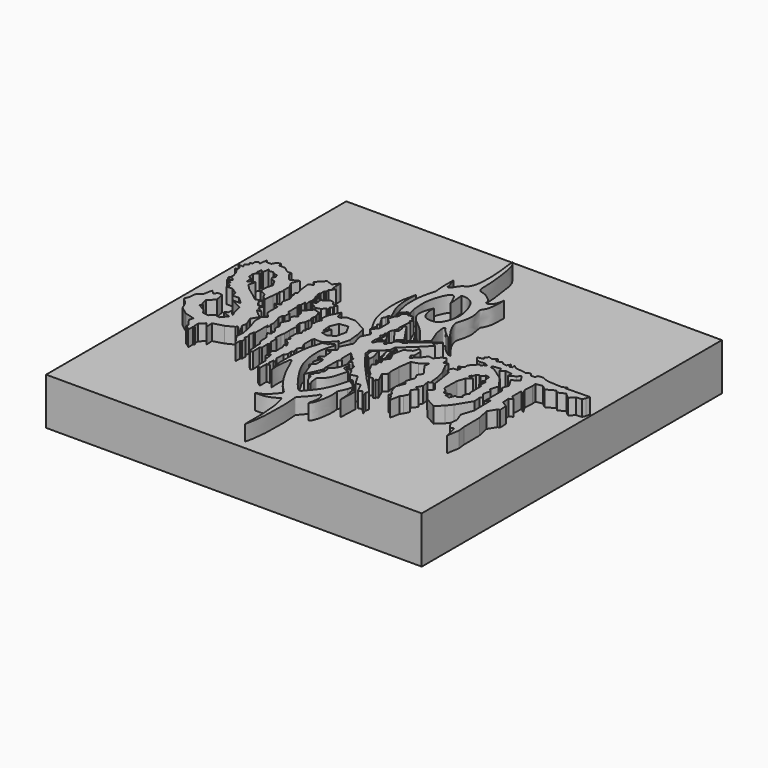
from build123d import *

# Parameters (mm, degrees)
F1_DEPTH = 25.4
F2_W     = 152.5938287377
F2_H     = 152.4340957403
F3_DEPTH = 19.05


with BuildPart() as f1:
    # F0 (on Top) → F1 (new body)
    with BuildSketch(Plane.XY):
        Polygon((-48.2117123902, -0.7492131554), (-46.7302165926, -2.2004691418), (-46.310249716, 1.7741884803), (-46.1366893617, 3.4168013238), (-45.5303192139, 4.0389937349), (-46.310249716, 4.7990907169), (-45.3353337944, 6.0038245283), (-45.9312607683, 6.4860710541), (-45.9312607683, 9.6485111862), (-47.2251698375, 11.973310262), (-45.9312607683, 14.8380640894), (-49.1000078619, 13.3381932974), (-51.3198189437, 15.9779656678), (-51.3198189437, 17.4178406596), (-52.8196878731, 17.1478651464), (-55.249478668, 18.9477112144), (-57.6042756438, 18.9477112144), (-58.0692365766, 20.5225758255), (-59.58410725, 19.5926558226), (-60.2890476584, 18.2877667248), (-62.4488592148, 18.2877667248), (-62.9451402718, 19.3362498111), (-63.2779146949, 16.1868004826), (-64.2187073827, 16.9678814709), (-65.1044097163, 15.9010749663), (-65.1044097163, 14.8380650207), (-66.1685392261, 14.4780967385), (-65.3736144304, 13.6831644922), (-66.7084977031, 12.5882588327), (-66.0779283343, 11.2560675098), (-68.0824094313, 11.4678632783), (-66.3335323334, 9.8284976557), (-66.4374698117, 8.8448108134), (-67.4324143801, 8.6657213842), (-66.0635530949, 7.878664881), (-65.1773959398, 6.3863522373), (-64.6824389696, 4.6465019695), (-64.6824389696, 3.4766027238), (-65.2323607141, 2.5201700118), (-63.8575106859, 3.0866363086), (-62.8225952387, 1.9167369464), (-64.7274330258, 1.2267963029), (-62.5226199627, 0.3868686326), (-63.086477365, -0.5938011989), (-61.2927265465, -1.3679801486), (-61.697691679, -2.6878665667), (-59.2379048467, -2.6878665667), (-56.7154362798, -4.3983748183), (-56.1983287334, -6.4415773377), (-53.7515282631, -6.2523917295), (-50.9389750659, -8.8757630438), (-54.2686358094, -8.8757630438), (-49.5390035212, -11.2468861043), (-48.6614964902, -14.8794101551), (-47.8168092668, -16.9486403465), (-50.0366203487, -14.7438310087), (-50.0966124237, -16.1387100816), (-51.3415075839, -16.9786382467), (-48.2067763805, -18.2535294443), (-50.2827093005, -20.6526070833), (-52.313297987, -20.1985631138), (-53.9024546742, -21.8003317714), (-56.1348423362, -21.5354729444), (-57.383466512, -19.7949670255), (-60.6313266276, -17.9275393664), (-59.6032440662, -17.2977205366), (-60.5491735041, -16.3770187646), (-60.9527677298, -14.1320191324), (-58.4834160956, -11.5950060905), (-59.2379048467, -7.9771876335), (-61.0788911581, -7.8762881458), (-61.8546920763, -9.2255735371), (-63.4619503333, -7.6611803952), (-64.2067566514, -11.5338731557), (-66.0635530949, -12.865923167), (-66.3808137178, -15.8120375127), (-67.0859026916, -17.5457261689), (-64.7750315671, -19.7949670255), (-63.411064446, -22.8314325213), (-60.2313391864, -25.2012293786), (-56.2416836619, -26.2811351568), (-56.7159094253, -28.0331374842), (-55.4816638318, -29.7536005367), (-54.5732877109, -31.0198214264), (-54.831802845, -31.950648874), (-54.0038183696, -32.1747647692), (-52.7122480043, -33.4318893246), (-52.7122480043, -31.0207288712), (-52.1957127203, -30.650170842), (-52.7619794011, -30.3907822818), (-52.7619794011, -28.2909628004), (-50.8376513703, -26.3139072674), (-49.2933823768, -28.466524024), (-49.5390035212, -25.3512170166), (-45.3226193786, -24.1513196379), (-42.1128943563, -22.5614570081), (-41.7194927155, -21.8772465691), (-38.7139684305, -24.8026143862), (-41.0029925406, -20.6416230649), (-40.7132431865, -18.7061093748), (-42.0181304216, -15.3314005584), (-40.3370895542, -12.4077073382), (-42.0781262219, -11.2468861043), (-44.0127999835, -9.3638095352), (-42.3181019723, -9.2119276524), (-44.5953432854, -7.9025783383), (-43.8555355757, -6.0835224719), (-45.7828044891, -6.6021527164), (-47.2715298175, -4.52696044), (-46.7178053498, -3.165450242), (-49.1376928985, -3.9228773676), (-51.420532167, -2.1445346065), (-55.2546903491, 0.6301843096), (-57.0621117949, 2.7307490818), (-56.342183553, 5.3904863903), (-58.7802305818, 4.1094888002), (-59.2379048467, 6.5700081177), (-60.3019009653, 6.8580068057), (-60.5491735041, 9.2426417395), (-59.2379048467, 10.9259030591), (-60.3498741984, 10.9259030591), (-60.038395666, 13.0065667605), (-58.9035708467, 12.2499320662), (-58.5211224004, 14.8046718549), (-57.9528489763, 14.0125333738), (-56.1712309718, 14.2697375268), (-55.4816638318, 13.5985609439), (-54.047193555, 13.3838185537), (-53.5198114812, 12.0001202449), (-54.2615120357, 11.238096743), (-53.5622350872, 9.963828139), (-52.2220388278, 9.7631987131), (-50.6909973919, 7.0988778025), (-51.3302044441, 4.7373607159), (-51.4758042991, 1.7479066737), (-48.9261557758, 0.7109678586), align=None)
    extrude(amount=F1_DEPTH)


with BuildPart() as f1b:
    # F0 (on Top) → F1, piece 2 (new body)
    with BuildSketch(Plane.XY):
        Polygon((-34.7670838237, 19.4117538631), (-34.7170606256, 21.5284470469), (-36.4869087934, 19.24864389), (-39.0666872263, 20.1185680926), (-42.0964248478, 16.938842833), (-40.6548150206, 15.5652337402), (-42.3664003611, 14.389061369), (-41.9261753559, 10.7197277248), (-41.301894933, 7.9193860292), (-42.0331954956, 6.9740479812), (-41.3197316229, 6.1178924516), (-41.8250031982, 5.6968322559), (-41.1890265175, 4.9336612353), (-40.7132841647, 3.1213480979), (-41.4089113474, 0.321006577), (-40.3208807111, -1.6766893677), (-42.4434319139, -2.3366427049), (-40.3208807111, -3.4425100312), (-40.3208807111, -8.640203625), (-38.2899791002, -10.890009813), (-39.9237276165, -12.364795735), (-39.9237276165, -15.5187621713), (-38.3320339024, -20.3973781317), (-37.6108475029, -24.5972312987), (-37.8865972161, -27.375921607), (-35.001847893, -31.5757729113), (-35.001847893, -29.1576758027), (-34.4592339238, -28.862145032), (-34.4592339238, -27.0365383476), (-35.2139621973, -26.8456358463), (-34.9890663749, -24.579392901), (-35.4897081852, -24.1093691438), (-35.2900323591, -22.0972644839), (-34.7589233199, -21.80799979), (-34.7589233199, -15.7308746129), (-34.6624627709, -15.306647867), (-34.2594459653, -16.6641753167), (-33.7927974761, -14.861209318), (-34.3230813742, -14.4581925124), (-34.3230813742, -12.8461280838), (-35.0442714989, -10.0250169635), (-35.3836528957, -9.1765616089), (-35.2004455921, -7.3304078881), (-34.5776192844, -7.0342123508), (-34.5776192844, -4.6797501855), (-35.4472883046, -4.1070426814), (-35.4472883046, 0.623094209), (-35.8194448054, 0.8795556496), (-35.7659347355, 1.8248939887), (-35.3378579021, 2.1459520794), (-35.3378579021, 4.2685042135), (-34.2855006456, 3.7155703176), (-34.5776192844, 4.9336612353), (-34.5776192844, 6.1413440853), (-34.1784805059, 6.5337484702), (-34.0357869864, 6.997499615), (-34.5776192844, 7.0512695872), (-34.5776192844, 8.0498578027), (-33.9644402266, 8.3174062893), (-33.9644402266, 9.8335146904), (-35.1059809327, 8.6563006043), (-35.3200174868, 10.6718335301), (-35.7124246657, 10.9393820167), (-35.7124246657, 11.8847200647), (-35.3913642466, 12.1522685513), (-35.3913642466, 13.9715997502), (-34.820120455, 14.2827235465), (-34.8919406533, 15.5947273597), (-33.2331359386, 17.4140576273), (-34.5776192844, 17.0751623809), align=None)
    extrude(amount=F1_DEPTH)


with BuildPart() as f1c:
    # F0 (on Top) → F1, piece 3 (new body)
    with BuildSketch(Plane.XY):
        Polygon((-28.4100533473, 10.1006627339), (-29.9677979201, 10.4446299374), (-31.8980328739, 8.5780285299), (-32.5221356426, 9.2234073312), (-32.5221356426, 7.899264805), (-32.2374142706, 6.3720452599), (-33.5084343267, 5.6797933865), (-32.7040664852, 4.8024035059), (-30.4768718779, 3.4448753577), (-28.6102704704, 3.9751599543), (-27.5116578109, 5.3854370813), (-26.7224572599, 5.0781513564), (-27.0618405193, 6.4993137494), (-26.3194423169, 7.1568666026), (-26.5103448182, 7.7932076529), (-26.0012708604, 9.0871015564), (-27.7193933725, 8.8325655088), align=None)
    extrude(amount=F1_DEPTH)


with BuildPart() as f1d:
    # F0 (on Top) → F1, piece 4 (new body)
    with BuildSketch(Plane.XY):
        Polygon((-28.853174299, 1.9623525441), (-29.9677979201, 2.2994615138), (-32.8525453806, -1.1155701941), (-31.601075083, -2.4730984587), (-31.8344011903, -3.3003422432), (-30.9223104268, -4.7427159734), (-32.1737825871, -5.2305776626), (-32.5555875897, -6.7153740674), (-31.3677489758, -8.3910729736), (-32.8525453806, -11.3818766549), (-31.4101725817, -13.6302830651), (-31.8131893873, -15.2635592967), (-30.8162532747, -16.7483557016), (-30.2859693766, -17.5755992532), (-31.007155776, -17.8513471037), (-30.2435457706, -18.9543385059), (-31.601075083, -19.6967367083), (-29.9142878503, -22.2531761974), (-29.8607796431, -25.2318829298), (-28.8562551141, -26.7670378089), (-28.9462469518, -28.3868983388), (-28.6312736571, -29.0168430656), (-28.6118183285, -32.2687663138), (-27.8626829386, -32.9822301865), (-27.2384025156, -32.3044396937), (-27.3454226553, -28.8976542652), (-26.6966774219, -28.5443198696), (-26.8358662724, -25.4803672433), (-26.4458991587, -25.1353960484), (-26.4908950776, -23.99549447), (-26.9408561289, -23.5005374998), (-26.8808621913, -20.8307672292), (-27.5858007371, -20.4258020967), (-27.4808108807, -17.9060194641), (-27.1508395672, -16.3311567158), (-27.2108353674, -13.781376183), (-27.2108353674, -11.4715751261), (-26.7908703536, -10.5416551232), (-26.8208682537, -9.5817381516), (-27.5558046997, -10.0017022341), (-27.8107821941, -7.9618776217), (-26.8730316311, -6.2104566023), (-26.8225837499, -4.7095855698), (-26.0153915733, -4.0159057826), (-26.9487071782, -3.3600633033), (-26.9487071782, -1.8339678645), (-26.4189876616, -1.4555971138), (-26.5198871493, -0.9132656269), (-26.9613191485, -0.7619172684), (-27.1126683801, 0.7011164562), (-27.5471889229, 1.0396100473), (-27.3523032665, 1.6344310716), align=None)
    extrude(amount=F1_DEPTH)


with BuildPart() as f1e:
    # F0 (on Top) → F1, piece 5 (new body)
    with BuildSketch(Plane.XY):
        Polygon((-21.2051046628, 3.1816350311), (-22.0202431083, 6.0638077557), (-24.1201687604, 1.9167369464), (-24.4264863868, -1.1699818386), (-23.4838407487, -1.8759611994), (-24.3221595883, -3.6596183199), (-24.1824669263, -5.0099725532), (-24.8572565615, -5.6038047187), (-24.090282619, -6.4064501785), (-23.0389569564, -8.3367533728), (-23.0675321072, -9.3818698078), (-23.9074602723, -9.5318574458), (-23.1875199825, -10.5667682365), (-23.8174665719, -11.3017046824), (-23.1275260448, -12.5915938988), (-24.2224317044, -14.2114544287), (-24.2224317044, -17.6911540329), (-23.2925117016, -17.7811477333), (-24.2356918752, -19.5577666163), (-22.4423501641, -20.6059981138), (-21.408136934, -22.3212782294), (-22.4675741047, -22.8762235492), (-21.7865072191, -23.8347612321), (-21.7865072191, -27.375921607), (-22.6315525642, -28.4606971293), (-22.4171262234, -31.9066718221), (-21.4838106185, -30.3175151348), (-21.1054403335, -31.7048765719), (-20.8647061268, -34.0319598302), (-20.1468989253, -34.7570665181), (-20.1468989253, -37.3552106321), (-20.0048975612, -38.727882184), (-18.4962900612, -39.9030946767), (-18.4962900612, -36.3209992647), (-17.0334414873, -36.4661684019), (-18.5072943568, -35.1354368031), (-18.2550475001, -33.0670066178), (-16.9685874134, -33.5967279971), (-18.5072943568, -31.2856882811), (-18.3591879904, -27.9324129224), (-17.5055500782, -26.8366072151), (-17.7349075675, -24.9715428799), (-17.1819739044, -24.1867341101), (-17.6813974977, -22.1176911145), (-16.6468750685, -20.3973781317), (-17.7757611078, -18.3246689751), (-17.7757611078, -14.1318235546), (-17.2517765924, -13.459190329), (-14.714770534, -13.7109559507), (-12.6874689013, -12.3451668769), (-10.404387489, -9.7767002881), (-9.2628467828, -11.3819921389), (-8.137542772, -7.0342123508), (-8.5493829101, -2.8204389382), (-9.5839053392, 1.5673574526), (-15.0062227622, 4.4925548136), (-18.5072943568, 4.4925548136), (-20.0361348689, 3.0656296294), align=None)
        Polygon((-13.1524928152, -7.3298919234), (-15.6688485295, -9.1193001717), (-18.1790521062, -8.5958714165), (-17.2384902835, -4.9618706107), (-18.8482865295, -7.0342123508), (-19.1899370402, -3.7316107191), (-17.7475623786, -0.4650589544), (-14.2998472218, 0), (-12.3598733917, -3.5619197879), align=None, mode=Mode.SUBTRACT)
    extrude(amount=F1_DEPTH)


with BuildPart() as f1f:
    # F0 (on Top) → F1, piece 6 (new body)
    with BuildSketch(Plane.XY):
        Polygon((-4.5212227851, 17.7852232009), (-5.2940296009, 18.2834398001), (-6.4394441433, 17.350140959), (-6.2478772583, 15.4983389357), (-7.1830879897, 14.5047735423), (-7.8428809639, 11.955565035), (-5.8108912781, 10.0375460461), (-5.8108912781, 4.9336612353), (-7.8799333423, 3.0099377036), (-5.4375535064, 0.3830599147), (-7.1307974868, -3.1971889548), (-5.6681991555, -8.1200823188), (-7.9869525507, -12.7932634205), (-6.9983928599, -14.6083241546), (-9.6279177815, -17.1453878284), (-7.759694102, -16.952122141), (-7.3353908979, -21.0536949768), (-8.6647430435, -21.7472240329), (-8.6647430435, -22.56770432), (-7.3448373005, -22.5320309401), (-7.986953482, -25.8139595389), (-6.9524324499, -22.6747244596), (-6.2032965943, -22.9244362563), (-6.2032965943, -26.4560766518), (-7.8085879795, -28.0970409513), (-6.91675907, -28.6321379244), (-4.8477165401, -34.3041680753), (-1.9938659389, -27.704635635), (-2.4219437037, -26.7771352082), (-2.3149242625, -20.5700080842), (-1.3517489424, -19.5711608976), (-2.2792511154, -18.5723118484), (-2.2792511154, -13.7921115384), (0, -15.9681718796), (0.8243122138, -16.2892304361), (0.9313315968, -19.0717354417), (1.9301793072, -18.3582734317), (3.678162815, -20.2132761478), (4.3559540063, -20.2489495277), (4.7483583912, -22.2823191434), (3.1787389889, -22.4606841803), (5.4618208669, -23.2098214328), (6.6722050444, -25.5298782338), (9.3145202845, -24.8151104897), (11.8473134935, -29.1315615177), (13.7023162097, -28.7748295814), (15.6286656857, -32.5918570161), (16.9128999114, -31.9497399032), (19.1246345639, -34.4111844897), (18.4111706913, -32.2351232171), (18.8035760075, -31.0222376138), (16.8772265315, -28.7034828216), (13.0245266482, -24.8864572495), (7.3881698772, -18.6079833657), (3.1844549812, -13.3794993162), (1.47460273, -11.0397003591), (1.0546382982, -8.9998757467), (6.12962991, -4.4484529644), (6.1896247789, -2.2286444437), (11.7091489956, 2.9309112579), (15.4888229445, 6.7705805413), (13.9889521524, 7.430523634), (16.0887707025, 10.0702969357), (7.9951444641, 3.5665326286), (6.7952484824, 3.5065377597), (7.6351757161, 2.9665841721), (5.9553203173, 1.8866772298), (5.5953515694, 2.336638514), (3.7055143621, 1.2867287733), (3.315547714, -0.5731110577), (2.385627944, -1.1430616723), (2.7455969248, -1.7130128108), (1.9656640943, -2.4029533379), (1.1557337129, -0.9030826041), (-0.8240957395, -2.5829377118), (-1.1909281932, -3.7009017756), (-1.9339999417, -3.842829261), (-2.0539895631, -2.2229687311), (-1.7240181332, 0.5967884208), (-2.5639457162, 1.2267340207), (-2.0239921287, 2.276643645), (-2.3239664733, 3.3565508202), (-1.4840388903, 3.8665069733), (-1.5740310773, 4.6164421365), (-2.1139844321, 4.7064344399), (-1.7840127693, 6.4762816764), (-1.2140619801, 7.3762042448), (-0.8540928247, 8.3361221477), (-1.2740568491, 9.0260626748), (-1.1240697931, 11.4858504385), (-0.7879640325, 14.6069088951), (-1.569930464, 15.010504052), (-0.6618404877, 15.8681441098), (-1.7717281589, 16.473537311), (-2.6532367547, 18.1632074593), align=None)
    extrude(amount=F1_DEPTH)


with BuildPart() as f1g:
    # F0 (on Top) → F1, piece 7 (new body)
    with BuildSketch(Plane.XY):
        Polygon((14.9972308427, -22.9948610067), (16.257122159, -22.9948610067), (14.3430428579, -18.874777481), (15.9126613289, -17.3408314586), (15.4845854267, -16.0209275782), (15.627278015, -11.7044774815), (16.3050685078, -6.7102378234), (18.9092066139, -5.8897556737), (21.6203648597, -4.0347520262), (21.406326443, -5.9967748821), (24.6525816619, -10.5272633955), (23.4040226787, -12.4892871827), (24.4385451078, -14.4513091072), (23.2256576419, -17.9116036743), (24.367198348, -19.4812230766), (23.0829641223, -22.6561315358), (24.1174865514, -26.2591186911), (25.4017189145, -27.5076795369), (24.9022953212, -28.6492202431), (25.9724892676, -28.684893623), (27.50643529, -31.2176849693), (28.2555706799, -27.2936411202), (29.0403794497, -26.2591186911), (29.9678817391, -24.2257509381), (28.3269155771, -21.7999778688), (29.9873569296, -19.7769016834), (28.4339357167, -19.2671846598), (29.6824947, -17.0554500073), (29.1830711067, -14.1302514821), (30.8953821659, -13.4167894721), (29.8608597368, -13.0957309157), (29.5754745603, -9.5284171402), (28.635031601, -5.9663060626), (26.4362376183, -1.7516715452), (26.3292174786, -0.1107071148), (24.6882550418, -0.6458041607), (24.6525816619, 1.1735260487), (23.3683474362, 2.5647785515), (21.8700766563, 1.4945843723), (20.2647857368, -0.3960922477), (18.3027628809, -0.1107071148), (17.5892990083, -1.4662864851), (14.2716970295, -4.8195617273), (13.6295799166, -3.2856166363), (14.4143896177, -2.5008076336), (14.4143896177, 0.7811214891), (12.9161179066, 1.9940081984), (12.223567548, -0.2132351849), (9.3488031998, -1.7130128108), (8.4926486015, -5.9611033648), (9.9909203127, -9.028993547), (8.3883022896, -10.9725590393), (9.4177117571, -12.9457246512), (7.0179183967, -12.5557575375), (8.7577681988, -13.575669378), (8.787766099, -15.1655329391), (7.7095535143, -15.7085084594), (9.5077035949, -19.1551912576), (11.4575354382, -21.0450273007), (12.6086075513, -23.3437461324), (13.7373395264, -22.754881531), (14.757251367, -23.8947831094), (15.6571734697, -23.6848015338), align=None)
    extrude(amount=F1_DEPTH)


with BuildPart() as f1h:
    # F0 (on Top) → F1, piece 8 (new body)
    with BuildSketch(Plane.XY):
        Polygon((31.6499508917, -0.2989926143), (31.3319303095, -1.7130128108), (29.7198630869, -1.7130128108), (28.8289859891, -3.6952225491), (30.3137823939, -4.7557912767), (31.1622377485, -10.0162131712), (31.5683856606, -13.2805956528), (34.2081561685, -16.760295257), (32.5282998383, -18.6201352626), (36.6679430008, -23.479718715), (40.8675819635, -25.8195158094), (43.5673519969, -23.2997331768), (45.3671962023, -20.9599342197), (48.966884613, -15.0804407895), (48.6764572561, -12.0943784714), (49.4836457074, -11.4385355264), (47.9701645672, -9.5719061792), (48.5920831561, -6.5203574486), (47.6321652532, -5.5604400113), (48.6520789564, -2.4407086894), (45.4123541713, 2.1788934246), (39.9528257549, 6.0185631737), (38.4645685554, 6.2708100304), (38.3636690676, 7.2041251697), (41.6016304182, 7.5541769666), (42.1978272498, 6.1194617301), (43.6608605087, 7.330248598), (46.3346801698, 6.9518778473), (46.3346801698, 5.1356977783), (48.6805774271, 6.4978329465), (49.8409159482, 7.7590686269), (51.5814200044, 5.1861470565), (48.8878687801, 3.3640406676), (50.8751273155, 0.0403044323), (50.0352010131, -2.5994686875), (51.355086267, -4.1593345813), (51.355086267, -13.318839483), (52.7047216892, -11.282547377), (52.9168359935, -20.0640577823), (51.3240695, -25.00044927), (52.6796467602, -28.710456565), (52.3229166865, -31.4216166735), (54.3206110597, -34.3468114734), (55.6048452854, -33.633351326), (56.8890757859, -38.9843210578), (57.7452294528, -33.8473916054), (57.3884993792, -30.8508463204), (57.3171526194, -23.0741016567), (56.246958673, -18.0798601359), (58.1733100116, -14.9406250566), (59.0294636786, -14.6552389488), (58.8867738843, -11.5160029382), (56.5323457122, -10.017731227), (56.3183054328, -7.0211882703), (57.8165762126, -6.2363790348), (56.246958673, -5.0948387943), (56.3183054328, -0.4573299957), (58.1019632518, -1.8129097298), (56.5323457122, 0.8982497966), (56.8177290261, 4.5369095169), (56.6393621266, 6.1811120249), (59.2791736126, 6.7162089981), (61.3125450909, 5.1109176129), (64.6943375468, 6.9152773358), (65.6528770924, 5.9062889777), (68.4275925159, 7.1675246581), (70.6978142262, 5.1999967545), (72.3626464605, 7.0666256361), (74.7337713838, 7.2684236802), (75.2887204289, 8.5801091045), (75.7427588105, 10.0431423634), (65.9555718303, 9.8413452506), (66.1069154739, 10.7998847961), (64.6943375468, 9.7908955067), (58.6908496916, 10.0935921073), (56.8746700883, 10.6485364959), (55.8656826615, 11.2034799531), (53.8981556892, 10.9512330964), (53.6963567138, 9.8917940632), (52.0819760859, 9.7404457629), (51.0729849339, 11.0521316528), (49.4081526995, 10.1440418512), (47.9451194406, 10.5476370081), (45.2208518982, 10.6989853084), (43.606467545, 11.9602214545), (43.8587144017, 10.5476370081), (42.7992790937, 10.2953901514), (42.2947816551, 11.7584234104), (41.4875932038, 10.3962887079), (39.8227609694, 10.6485364959), (39.318267256, 11.4052779973), (38.309276104, 10.9512330964), (36.9471423328, 10.6485364959), (36.5939959884, 12.2124692425), (35.2823100984, 10.9512330964), (33.7183773518, 11.4557277411), (32.6084904373, 10.1440418512), (33.2643315196, 9.4881989062), (31.3472561538, 9.0846037492), (30.7923108339, 8.8323559612), (31.9021977484, 7.4197719805), (33.3652310073, 7.0666256361), (35.3327617049, 7.2684236802), (36.7453433573, 6.6125807352), (35.6354564428, 5.9062889777), (35.1814106107, 5.0990977325), (34.5255695283, 5.6035919115), (31.9021977484, 2.7784234844), (31.9021977484, 1.264940016), (29.98512052, 0.2055019722), align=None)
        Polygon((35.8310267329, -14.0219926834), (35.9716750681, -7.6932064258), (36.9898192585, -4.7557912767), (38.9412678778, -3.3660857007), (36.6928614676, -2.7721670922), (37.3716242611, -1.9237120869), (37.7110056579, -2.4752079044), (38.0079671741, -0.6086067297), (39.0685349703, -0.1419562032), (39.7472977638, -0.5237610894), (40.850289166, 0.9186127572), (42.2502420843, 0.7064985693), (42.6744669676, -2.1358258091), (42.2926656902, -2.8570126742), (43.5653477907, -2.3903623223), (43.4805005789, -4.8508821055), (42.8441613913, -5.0629959442), (44.1592670977, -5.8266054839), (44.2441105843, -11.6809457541), (44.7531826794, -12.0627498254), (44.0744198859, -12.5718228519), (43.6077713966, -14.480846934), (44.1785417497, -15.0565132499), (42.8229607642, -16.5547858924), (42.038153857, -15.8769953996), (41.074976325, -18.1600768119), (39.2199754715, -17.5893064588), (40.3258427978, -16.0196889192), (37.7573743463, -16.7331509292), (37.0082370937, -14.9494940415), align=None, mode=Mode.SUBTRACT)
    extrude(amount=F1_DEPTH)


with BuildPart() as f1i:
    # F0 (on Top) → F1, piece 9 (new body)
    with BuildSketch(Plane.XY):
        with BuildLine():
            add(Edge.make_bspline(
                [(13.109642081, 44.7500385344), (13.0041518924, 43.7914933624), (12.8068516749, 41.9987088993), (11.4331204269, 40.1611450951), (10.6534175101, 39.7081258878), (9.4144625868, 39.6941646208), (9.8188253256, 41.1278984747), (7.8949126406, 42.845109264), (5.5110187564, 44.6205571878), (3.1923847958, 44.8411094872), (2.34458882, 46.1903273817), (2.3279508422, 48.487157841), (2.163013139, 53.3533734673), (1.3313994932, 59.8327643514), (0.3405325163, 65.1745187983), (-0.8730222746, 66.5522348989), (-1.3598267687, 67.1048909426)],
                knots=[0, 0, 0, 0, 0.0759166757, 0.1419883388, 0.185211357, 0.2273364077, 0.2732965828, 0.343825801, 0.4234054464, 0.4896555297, 0.5416245278, 0.6080957484, 0.7076848139, 0.8264005523, 0.9303624427, 1, 1, 1, 1], degree=3))
            add(Edge.make_bspline(
                [(-1.3598267687, 67.1048909426), (-0.7553736425, 62.3385672507), (0.3002658799, 54.0144814837), (-0.7919286027, 45.1388921384), (-3.978759385, 44.3206319653), (-5.3304945112, 41.2427045211), (-6.0421805285, 40.8280777232), (-6.9456417129, 40.733826727), (-6.8497514862, 41.2580711186), (-6.8018063903, 41.5201932192)],
                knots=[0, 0, 0, 0, 0.3002596886, 0.5243847381, 0.6582121613, 0.7987334608, 0.8712489105, 0.9356244786, 1, 1, 1, 1], degree=3))
            Line((-6.8018063903, 41.5201932192), (-6.7771822214, 41.5201932192))
            Line((-6.7771822214, 41.5201932192), (-8.1315208226, 45.6570833921))
            Line((-8.1315208226, 45.6570833921), (-8.1561449915, 40.2643531561))
            Line((-8.1561449915, 40.2643531561), (-7.7811530791, 36.2295433879))
            add(Edge.make_bspline(
                [(-7.7811530791, 36.2295433879), (-8.3402063929, 34.2966818848), (-9.4789531848, 30.3595979221), (-9.5450488039, 23.4912473894), (-8.8108889304, 20.0498447269), (-7.9669304657, 17.3016511853), (-7.523923181, 15.8590804785)],
                knots=[0, 0, 0, 0, 0.2759065464, 0.561999521, 0.7700865493, 1, 1, 1, 1], degree=3))
            Line((-7.523923181, 15.8590804785), (-7.275513839, 16.0130336881))
            Line((-7.275513839, 16.0130336881), (-7.336455863, 17.8151801229))
            Line((-7.336455863, 17.8151801229), (-5.8999625035, 19.312614575))
            Line((-5.8999625035, 19.312614575), (-5.1773632877, 19.373556599))
            Line((-5.1773632877, 19.373556599), (-4.3241730891, 18.7118984759))
            Line((-4.3241730891, 18.7118984759), (-4.8900642432, 19.7827387601))
            Line((-4.8900642432, 19.7827387601), (-5.5256034248, 22.246543318))
            add(Edge.make_bspline(
                [(-5.5256034248, 22.246543318), (-5.678365751, 23.8366908811), (-6.0042915554, 27.2293475428), (-5.1675432202, 32.8159304985), (-1.8078177562, 39.7962833884), (0.0851211358, 35.0207391401), (1.0645600269, 32.549791038)],
                knots=[0, 0, 0, 0, 0.2359191399, 0.5033448846, 0.7430221665, 1, 1, 1, 1], degree=3))
            Line((1.0645600269, 32.549791038), (0.4788909864, 38.9042980969))
            add(Edge.make_bspline(
                [(0.4788909864, 38.9042980969), (0.9935335346, 38.9551707285), (2.2059567067, 39.0750192672), (5.3686948813, 37.8692678848), (7.4416489952, 34.283133395), (9.6334826533, 27.0762754477), (6.9390188264, 20.1531274757), (4.1881009674, 19.3766802493), (0.841446668, 19.5408343783), (-1.0182644024, 22.910019015), (-0.9578714463, 25.4442647685), (-0.9267150308, 26.7516691238)],
                knots=[0, 0, 0, 0, 0.0736988715, 0.173623848, 0.2878856285, 0.4450659274, 0.5932993783, 0.6840386823, 0.7823529946, 0.8877170289, 1, 1, 1, 1], degree=3))
            add(Edge.make_bspline(
                [(-0.9267150308, 26.7516691238), (-1.4646107764, 25.4307599498), (-2.4844088979, 22.9264443736), (-2.485208811, 19.3157391681), (-0.038346326, 16.2076283611), (4.9788191486, 12.7628382078), (8.0567049079, 8.4305420728), (9.720637463, 6.0884640552)],
                knots=[0, 0, 0, 0, 0.1834839622, 0.3478677821, 0.5201861387, 0.7406083374, 1, 1, 1, 1], degree=3))
            Line((9.720637463, 6.0884640552), (12.4343121424, 8.6989672855))
            add(Edge.make_bspline(
                [(12.4343121424, 8.6989672855), (12.1533434043, 9.5181735629), (11.5763922756, 11.2003606618), (10.2375684104, 13.7392399597), (9.9668545831, 16.449230252), (9.7725720844, 17.6508145199), (9.9281557142, 18.0864030858), (10.1374029069, 18.2049604693), (10.4776221728, 18.2894508808), (10.8047083712, 18.0040290651), (10.848917908, 17.499776348), (12.65998883, 15.6892336167), (14.177410444, 14.5300642737), (14.8539433946, 14.1393268366), (15.1352090761, 13.9768794179)],
                knots=[0, 0, 0, 0, 0.1244871019, 0.2556262111, 0.3826440616, 0.4655052334, 0.5130729732, 0.5492608452, 0.5928637024, 0.6389242686, 0.6905603746, 0.811685377, 0.9217090007, 1, 1, 1, 1], degree=3))
            Line((15.1352090761, 13.9768794179), (15.9732047468, 13.9768794179))
            Line((15.9732047468, 13.9768794179), (14.6272806451, 15.3831681237))
            add(Edge.make_bspline(
                [(14.6272806451, 15.3831681237), (13.8165588846, 16.5208441897), (12.2135248276, 18.7703625435), (10.4393924446, 22.8730571686), (11.450945432, 25.1647139301), (12.7333221123, 30.4879230438), (10.630204569, 34.8547797245), (12.5095821352, 36.3999631533), (13.1786164779, 40.7372098613), (13.1325877189, 43.4150951667), (13.109642081, 44.7500385344)],
                knots=[0, 0, 0, 0, 0.1334936574, 0.2639560078, 0.3635884131, 0.5133130748, 0.647194132, 0.737134608, 0.86895988, 1, 1, 1, 1], degree=3))
        make_face()
    extrude(amount=F1_DEPTH)


with BuildPart() as f1j:
    # F0 (on Top) → F1, piece 10 (new body)
    with BuildSketch(Plane.XY):
        with BuildLine():
            add(Edge.make_bspline(
                [(-8.0016450956, 13.8275148347), (-8.8201552275, 15.4659774323), (-10.4606926691, 18.749943181), (-11.4662910542, 24.2585376894), (-11.261003892, 28.2446524855), (-11.1559936777, 30.2836634219)],
                knots=[0, 0, 0, 0, 0.3272252524, 0.6558566077, 1, 1, 1, 1], degree=3))
            add(Edge.make_bspline(
                [(-11.1559936777, 30.2836634219), (-11.645807571, 28.2507046631), (-12.649925767, 24.0831403921), (-12.5753495921, 17.1054266539), (-11.4921634167, 9.8810561818), (-9.096152513, 5.9358888894), (-7.9152612016, 3.991484642)],
                knots=[0, 0, 0, 0, 0.2405709663, 0.4931703408, 0.750205335, 1, 1, 1, 1], degree=3))
            Line((-7.9152612016, 3.991484642), (-7.2529274039, 5.4697357118))
            Line((-7.2529274039, 5.4697357118), (-7.9842330888, 6.68857852))
            Line((-7.9842330888, 6.68857852), (-7.3922239244, 7.3850601912))
            Line((-7.3922239244, 7.3850601912), (-9.1682514176, 10.2580469102))
            Line((-9.1682514176, 10.2580469102), (-9.7080245614, 11.0241761431))
            Line((-9.7080245614, 11.0241761431), (-9.0986033902, 12.3474914581))
            Line((-9.0986033902, 12.3474914581), (-9.0986033902, 13.5489217937))
            Line((-9.0986033902, 13.5489217937), (-8.0016450956, 13.8275148347))
        make_face()
    extrude(amount=F1_DEPTH)


with BuildPart() as f1k:
    # F0 (on Top) → F1, piece 11 (new body)
    with BuildSketch(Plane.XY):
        Polygon((5.4932655767, 3.5162623972), (0, 11.6277765483), (-0.5684070056, 10.8224814758), (-0.5098401452, 9.8561281338), (-0.1291554508, 9.3875927851), (0.0904703338, 7.3523935862), (-0.8758833865, 6.5763820894), (2.9163225554, 1.5835550148), (4.9515222199, 3.6041126586), align=None)
    extrude(amount=F1_DEPTH)


with BuildPart() as f1l:
    # F0 (on Top) → F1, piece 12 (new body)
    with BuildSketch(Plane.XY):
        Polygon((4.7671697102, 9.3674790114), (4.7720400617, 9.3783512712), (7.0356056094, 4.4333320111), (8.1499768421, 4.8686326481), (5.7090506889, 8.9088501409), (4.8656668514, 9.9061364308), align=None)
    extrude(amount=F1_DEPTH)


with BuildPart() as f1m:
    # F0 (on Top) → F1, piece 13 (new body)
    with BuildSketch(Plane.XY):
        Polygon((-1.1050726753, 3.2970870379), (-1.1050726753, -1.9830761012), (-0.5045836442, -1.5068260254), (-0.6288227742, -1.3618804514), (-0.214692438, -0.5750326673), (0.3029709042, -0.5750326673), (1.0069925338, -0.1609021856), align=None)
    extrude(amount=F1_DEPTH)


with BuildPart() as f1n:
    # F0 (on Top) → F1, piece 14 (new body)
    with BuildSketch(Plane.XY):
        with BuildLine():
            add(Edge.make_bspline(
                [(-9.993663989, -12.1739283204), (-9.8375277771, -12.2314241891), (-9.2208772961, -12.4585006286), (-11.0701259825, -17.0065083924), (-11.0597680983, -22.5375441704), (-9.836419431, -30.9888134084), (-1.7758769154, -41.5893596799), (-0.6102801176, -42.7676822921), (0.3553830797, -43.8316042272), (0.7898400515, -44.0125098018), (1.5635016689, -43.9962898003), (1.8469025516, -43.4889977791), (6.5709293841, -38.5436526493), (8.5610150095, -31.7925398333), (9.1145061265, -29.827312838), (9.3201836571, -29.0970336646)],
                knots=[0, 0, 0, 0, 0.0299040646, 0.1181042857, 0.2214742781, 0.3504651742, 0.5045360448, 0.5607659919, 0.6088251068, 0.6388595435, 0.6736698905, 0.7030862346, 0.8127666478, 0.930424008, 1, 1, 1, 1], degree=3))
            Line((-9.993663989, -12.1739283204), (-10.6901451945, -12.6440534368))
            Line((-10.6901451945, -12.6440534368), (-11.2821552902, -12.6788774505))
            Line((-11.2821552902, -12.6788774505), (-11.7174554616, -13.6713637039))
            Line((-11.7174554616, -13.6713637039), (-12.6402936876, -13.5494796559))
            Line((-12.6402936876, -13.5494796559), (-13.0930067971, -13.9847798273))
            Line((-13.0930067971, -13.9847798273), (-13.6676039547, -13.9499558136))
            add(Edge.make_bspline(
                [(-9.0180840343, -54.1099235415), (-7.9426917987, -53.7379156294), (-5.7227799915, -52.9699867479), (-3.1597743969, -49.8767519857), (-2.1828683798, -48.7090237097), (-2.0455534034, -47.843803758), (-4.292670518, -45.9773502441), (-6.6577791014, -42.9971964003), (-9.8601639811, -38.1422923519), (-12.4881563242, -32.0670183433), (-13.553678064, -30.1210406109), (-13.7541290045, -29.3457453024), (-14.5424399075, -29.2813200306), (-14.6653971833, -31.0679913804), (-15.0724890483, -34.111728124), (-15.0482522704, -36.6579284157), (-14.4673740329, -39.935020444), (-16.0966269518, -34.1964519787), (-15.9143730879, -30.7216876274), (-16.0092806082, -25.8109826841), (-15.4801530261, -19.2953869811), (-14.1954599526, -15.973052605), (-13.8258951633, -14.5566334633), (-13.6676039547, -13.9499558136)],
                knots=[0, 0, 0, 0, 0.0526574325, 0.1086997397, 0.142437436, 0.1649692563, 0.2105600954, 0.2664129316, 0.3355683053, 0.408551231, 0.4493898305, 0.4720850004, 0.4912072399, 0.5256767341, 0.5759947623, 0.6246305941, 0.6599868126, 0.7161175623, 0.7731115292, 0.8350623808, 0.9075752081, 0.9604128087, 1, 1, 1, 1], degree=3))
            add(Edge.make_bspline(
                [(1.9021856133, -72.7268233895), (1.953256346, -70.0318814585), (2.0571179059, -64.5512302498), (1.3557179249, -55.9033560714), (0.1162982952, -52.2137694536), (-0.2543953795, -51.5384347293), (-0.7688932654, -51.932269902), (-1.4423584228, -52.508870693), (-4.3358994283, -54.0809621553), (-7.3442830418, -54.0995703408), (-9.0180840343, -54.1099235415)],
                knots=[0, 0, 0, 0, 0.2056555801, 0.41823777, 0.5537009499, 0.6031212695, 0.6518528333, 0.7186255371, 0.843449202, 1, 1, 1, 1], degree=3))
            add(Edge.make_bspline(
                [(8.5828509182, -48.8690920174), (8.9640121357, -47.3002423275), (9.5868917125, -44.7364861368), (8.9708579756, -43.0464656597), (8.6233219782, -42.1123446072), (8.2211063556, -42.1431237218), (8.0971677862, -42.1615815136), (7.9580428967, -42.1563361568), (7.7251669392, -42.2108572866), (7.7922525277, -42.6664900602), (6.7953158915, -43.8945319961), (5.2640641727, -46.0662077001), (2.6538125906, -48.3395989099), (3.126244387, -49.4345904124), (3.1799115936, -51.9460567888), (3.4702567767, -54.5765688418), (3.2137710152, -60.8463083714), (3.290463083, -63.9189736705), (2.6678795113, -69.6340646432), (2.1331845255, -71.7937822511), (1.9021856133, -72.7268233895)],
                knots=[0, 0, 0, 0, 0.0865936092, 0.1415080764, 0.1799200985, 0.2030860232, 0.2177643318, 0.2333021211, 0.2511771383, 0.2755278182, 0.325507946, 0.3973978358, 0.4715073536, 0.5128578631, 0.5764171728, 0.6473417811, 0.7498375341, 0.8270848323, 0.9252971943, 1, 1, 1, 1], degree=3))
            add(Edge.make_bspline(
                [(10.720542632, -37.155713886), (10.8769859641, -38.1412624072), (11.2541906812, -40.517544901), (9.975262266, -47.5580512412), (8.9309992236, -48.541289012), (8.5828509182, -48.8690920174)],
                knots=[0, 0, 0, 0, 0.3208342094, 0.7735719742, 1, 1, 1, 1], degree=3))
            Line((10.720542632, -37.155713886), (12.2725646943, -33.8027626276))
            Line((12.2725646943, -33.8027626276), (12.7557413653, -31.7822024226))
            Line((12.7557413653, -31.7822024226), (13.3706936613, -31.8261273205))
            Line((13.3706936613, -31.8261273205), (13.4439021349, -32.9681821167))
            Line((13.4439021349, -32.9681821167), (14.2931221053, -33.5684940219))
            Line((14.2931221053, -33.5684940219), (14.3077643588, -35.2815762162))
            Line((14.3077643588, -35.2815762162), (14.7616574541, -35.6622599065))
            Line((14.7616574541, -35.6622599065), (15.0691336021, -40.7136492431))
            Line((15.0691336021, -40.7136492431), (15.3089417145, -33.5308797657))
            Line((15.3089417145, -33.5308797657), (14.6124605089, -33.4438197315))
            Line((14.6124605089, -33.4438197315), (14.0204513445, -32.7473394573))
            Line((14.0204513445, -32.7473394573), (13.3075416088, -31.0471858829))
            Line((13.3075416088, -31.0471858829), (12.1757593006, -31.0471858829))
            Line((12.1757593006, -31.0471858829), (11.810105294, -30.4377619177))
            Line((11.810105294, -30.4377619177), (11.7056332529, -30.0198718905))
            Line((11.7056332529, -30.0198718905), (11.1832721159, -30.1765799522))
            Line((11.1832721159, -30.1765799522), (9.9992537871, -29.3408036232))
            Line((9.9992537871, -29.3408036232), (10.2081978694, -28.330905363))
            Line((10.2081978694, -28.330905363), (9.4768926501, -27.8607793152))
            Line((9.4768926501, -27.8607793152), (9.3201836571, -29.0970336646))
        make_face()
    extrude(amount=F1_DEPTH)


with BuildPart() as f1o:
    # F0 (on Top) → F1, piece 15 (new body)
    with BuildSketch(Plane.XY):
        with BuildLine():
            add(Edge.make_bspline(
                [(-2.4732183665, -32.4887596071), (-2.79593722, -32.6154833218), (-3.3009703665, -32.8137973519), (-3.4951750317, -33.0425202468), (-3.6677496402, -33.5559719061), (-2.2582898607, -33.9966575198), (-2.0486793335, -35.0503114628), (-1.5710538473, -36.5391109472), (-0.5567923367, -37.8890443819), (0.8491754809, -38.7303452818), (1.6289626947, -39.1969531775)],
                knots=[0, 0, 0, 0, 0.113696776, 0.1779277533, 0.250042692, 0.3833031613, 0.5053210525, 0.6533620446, 0.8077453538, 1, 1, 1, 1], degree=3))
            add(Edge.make_bspline(
                [(1.6289626947, -39.1969531775), (1.1586014623, -38.6299127829), (0.209175066, -37.4853390354), (-0.0458504938, -34.9643440776), (0.0368274943, -34.5426531802), (-0.1111906126, -34.2252724026), (0.0231713279, -33.9117725018), (0.3427197529, -33.7711201179), (2.0022582718, -32.5819267863), (3.5450646779, -29.6641023176), (4.340253301, -26.5318606726), (4.79815013, -24.7256799426), (4.7799643459, -24.1999530557), (4.773078952, -24.0009054542)],
                knots=[0, 0, 0, 0, 0.1208433681, 0.2439229163, 0.2944866641, 0.3387548564, 0.3815912873, 0.4258069969, 0.5345349917, 0.6824399236, 0.8284387636, 0.9350445003, 1, 1, 1, 1], degree=3))
            Line((4.773078952, -24.0009054542), (3.9373007603, -24.0009054542))
            Line((3.9373007603, -24.0009054542), (3.3452915959, -23.6004292965))
            Line((3.3452915959, -23.6004292965), (2.8751664795, -23.5307812691))
            Line((2.8751664795, -23.5307812691), (2.4572776165, -23.1477171183))
            Line((2.4572776165, -23.1477171183), (2.5269256439, -21.8940488994))
            Line((2.5269256439, -21.8940488994), (2.8751664795, -21.6154567897))
            Line((2.8751664795, -21.6154567897), (3.4323516302, -21.5458087623))
            Line((3.4323516302, -21.5458087623), (2.718458185, -21.1627446115))
            Line((2.718458185, -21.1627446115), (1.9175043562, -20.4836744815))
            Line((1.9175043562, -20.4836744815), (1.9523284864, -19.9090763927))
            Line((1.9523284864, -19.9090763927), (1.6563237878, -19.6827203035))
            add(Edge.make_bspline(
                [(1.6563237878, -19.6827203035), (1.5508296253, -20.5847405962), (1.3441539038, -22.3519065747), (0.4468670448, -24.770052997), (-0.9447904249, -25.887945048), (-1.6519638011, -26.4560040087)],
                knots=[0, 0, 0, 0, 0.3389792731, 0.664101067, 1, 1, 1, 1], degree=3))
            Line((-1.6519638011, -26.4560040087), (-1.0628432501, -27.1432641894))
            Line((-1.0628432501, -27.1432641894), (-1.0454312433, -28.8844686002))
            Line((-1.0454312433, -28.8844686002), (-1.6374405241, -29.4068306684))
            Line((-1.6374405241, -29.4068306684), (-1.6200285172, -30.5386129767))
            Line((-1.6200285172, -30.5386129767), (-2.6473389007, -31.6355712712))
            Line((-2.6473389007, -31.6355712712), (-2.4732183665, -32.4887596071))
        make_face()
    extrude(amount=F1_DEPTH)


with BuildPart() as f1p:
    # F0 (on Top) → F1, piece 16 (new body)
    with BuildSketch(Plane.XY):
        Polygon((4.3148021214, -12.9194455221), (4.7910520807, -13.8305323198), (4.7910520807, -11.1179780215), (3.6936064716, -7.0387935266), (2.0784977823, -8.6331954226), (2.2234434728, -9.2750983313), (1.8714326434, -9.5649892464), (2.3269760422, -10.1033588871), (2.2027369123, -11.0144456849), (2.5133348536, -11.035152711), (2.5754543021, -11.5942284465), align=None)
    extrude(amount=F1_DEPTH)


with BuildPart() as f1q:
    # F0 (on Top) → F1, piece 17 (new body)
    with BuildSketch(Plane.XY):
        Polygon((7.0997397415, -10.3270458058), (7.156402804, -10.8989067376), (7.8006386757, -11.0746072605), (7.7420719899, -10.5328634381), (8.386307396, -10.3864464909), (8.1227570772, -8.1316204742), (7.7127884142, -8.0144871026), (7.7859968878, -6.9895666093), (7.4134879819, -6.9629588786), (7.2735366412, -5.3057693876), (7.7713555656, -4.9104429781), (7.7859968878, -3.8415971212), (7.595654577, -3.7976719905), (7.6249381527, -2.8313181829), (7.3467451148, -2.9191686772), (7.3760291561, -3.9440891705), (7.1710445918, -4.646891728), (5.6483056396, -5.6132455356), (5.9704235755, -5.7596624829), (6.2778997235, -7.8095039353), (7.0099858567, -8.0437716097), (6.5750852227, -8.9946929365), (7.0800343528, -9.5518780872), (6.5054371953, -10.0568272173), align=None)
    extrude(amount=F1_DEPTH)


with BuildPart() as f3:
    # F2 (on Top) → F3 (new body)
    with BuildSketch(Plane.XY):
        with Locations((0.1194812357, 0.0032186508)):
            Rectangle(F2_W, F2_H)
    extrude(amount=F3_DEPTH)


solid = Compound([f1.part, f1b.part, f1c.part, f1d.part, f1e.part, f1f.part, f1g.part, f1h.part, f1i.part, f1j.part, f1k.part, f1l.part, f1m.part, f1n.part, f1o.part, f1p.part, f1q.part, f3.part])
